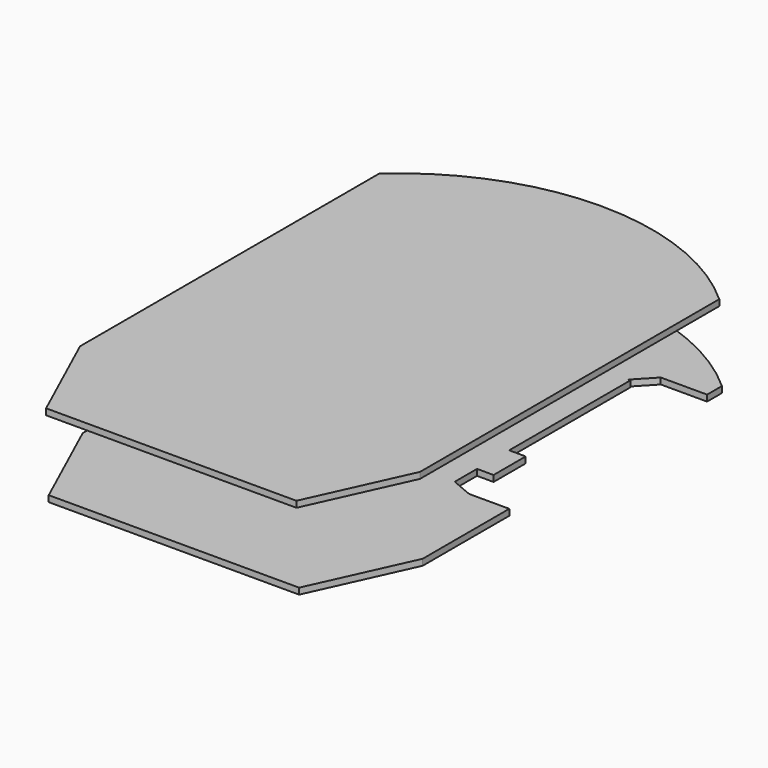
from build123d import *

# Parameters (mm, degrees)
F2_DEPTH = 25
F3_DEPTH = 23
F4_DEPTH = 2


with BuildPart() as f2:
    # F1 (on Top) → F2 (new body)
    with BuildSketch(Plane.XY):
        with BuildLine():
            Line((-40.715536, -87.804613), (-0.215536, -87.804613))
            Line((-0.215536, -87.804613), (40.284464, -87.804613))
            Line((40.284464, -87.804613), (54.784464, -55.949472))
            Line((54.784464, -55.949472), (54.784464, 65.050528))
            ThreePointArc((54.784464, 65.050528), (-0.215536, 86.195387), (-55.215536, 65.050528))
            Line((-55.215536, 65.050528), (-55.215536, -55.949472))
            Line((-55.215536, -55.949472), (-40.715536, -87.804613))
        make_face()
    extrude(amount=F2_DEPTH)

    # F1 (on Top) → F3 (cut)
    with BuildSketch(Plane.XY):
        with BuildLine():
            Line((-40.715536, -87.804613), (-0.215536, -87.804613))
            Line((-0.215536, -87.804613), (40.284464, -87.804613))
            Line((40.284464, -87.804613), (54.784464, -55.949472))
            Line((54.784464, -55.949472), (54.784464, 65.050528))
            ThreePointArc((54.784464, 65.050528), (-0.215536, 86.195387), (-55.215536, 65.050528))
            Line((-55.215536, 65.050528), (-55.215536, -55.949472))
            Line((-55.215536, -55.949472), (-40.715536, -87.804613))
        make_face()
    extrude(amount=F3_DEPTH, mode=Mode.SUBTRACT)


with BuildPart() as f4:
    # F0 (on Top) → F4 (new body)
    with BuildSketch(Plane.XY):
        with BuildLine():
            Line((-40.5, -87), (0, -87))
            Line((0, -87), (40.5, -87))
            Line((40.5, -87), (55, -55.144859))
            Line((55, -55.144859), (55, -20.144859))
            Line((55, -20.144859), (42, -20.144859))
            Line((42, -20.144859), (35, -17.186692))
            Line((35, -17.186692), (35, -8.178284))
            Line((35, -8.178284), (40.345572, -8.178284))
            Line((40.345572, -8.178284), (40.345572, 4.821716))
            Line((40.345572, 4.821716), (35, 4.821716))
            Line((35, 4.821716), (35, 53.821716))
            Line((35, 53.821716), (34.316558, 53.821716))
            Line((34.316558, 53.821716), (40.010627, 59.855141))
            Line((40.010627, 59.855141), (55, 59.855141))
            Line((55, 59.855141), (55, 65.855141))
            ThreePointArc((55, 65.855141), (0, 87), (-55, 65.855141))
            Line((-55, 65.855141), (-55, 59.855141))
            Line((-55, 59.855141), (-40.010627, 59.855141))
            Line((-40.010627, 59.855141), (-34.316558, 53.821716))
            Line((-34.316558, 53.821716), (-35, 53.821716))
            Line((-35, 53.821716), (-35, 4.821716))
            Line((-35, 4.821716), (-40.345572, 4.821716))
            Line((-40.345572, 4.821716), (-40.345572, -8.178284))
            Line((-40.345572, -8.178284), (-35, -8.178284))
            Line((-35, -8.178284), (-35, -17.186692))
            Line((-35, -17.186692), (-42, -20.144859))
            Line((-42, -20.144859), (-55, -20.144859))
            Line((-55, -20.144859), (-55, -55.144859))
            Line((-55, -55.144859), (-40.5, -87))
        make_face()
    extrude(amount=-F4_DEPTH)


solid = Compound([f2.part, f4.part])
